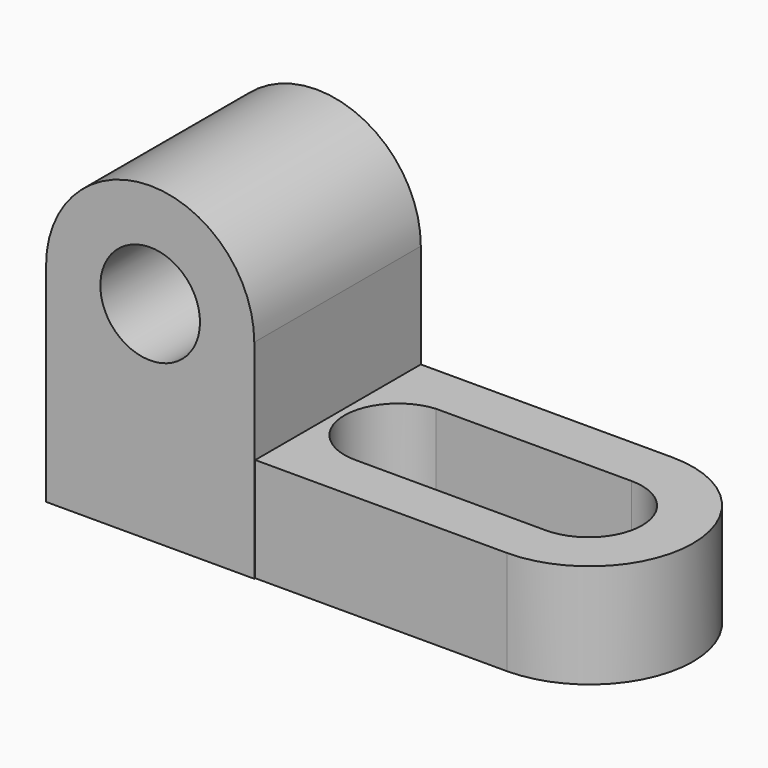
from build123d import *

# Parameters (mm, degrees)
F0_W      = 25.4
F0_H      = 25.4
F1_DEPTH  = 25.4
F2_W      = 31.493294
F2_H      = 25.251383
F3_DEPTH  = 12.7
F4_R      = 6.077907
F5_DEPTH  = 25.4
F5_FACE_R = 6.077907
F6_DEPTH  = 50.8
F8_DEPTH  = 12.7


with BuildPart() as f1:
    # F0 (on Front) → F1 (new body)
    with BuildSketch(Plane.XZ):
        with Locations((-57.573333, 12.7)):
            Rectangle(F0_W, F0_H)
        with BuildLine():
            ThreePointArc((-44.873333, 25.4), (-57.573333, 38.1), (-70.273333, 25.4))
            Line((-70.273333, 25.4), (-44.873333, 25.4))
        make_face()
    extrude(amount=F1_DEPTH)

    # F2 (on Top) → F3 (join)
    with BuildSketch(Plane.XY):
        with Locations((-29.932818, -12.625692)):
            Rectangle(F2_W, F2_H)
        with BuildLine():
            ThreePointArc((-14.186171, -25.251383), (-1.560479, -12.625691), (-14.186171, 0))
            Line((-14.186171, 0), (-14.186171, -25.251383))
        make_face()
    extrude(amount=F3_DEPTH)

    # F4 (on face) → F5 (join)
    with BuildSketch(Plane.XZ.offset(25.4)):
        with Locations((-57.573333, 25.4)):
            Circle(F4_R)
    extrude(amount=F5_DEPTH)

    # F5_face (on face) → F6 (cut)
    with BuildSketch(Plane(origin=(-57.573333, -50.8, 25.4), x_dir=(1, 0, 0), z_dir=(0, -1, 0))):
        Circle(F5_FACE_R)
    extrude(amount=-F6_DEPTH, mode=Mode.SUBTRACT)

    # F7 (on face) → F8 (cut)
    with BuildSketch(Plane.XY.offset(12.7)):
        with BuildLine():
            ThreePointArc((-14.186171, -19.293193), (-7.660532, -12.767554), (-14.186171, -6.241916))
            Line((-14.186171, -6.241916), (-38.018938, -6.241916))
            ThreePointArc((-38.018938, -6.241916), (-43.983294, -13.03921), (-37.451491, -19.293193))
            Line((-37.451491, -19.293193), (-14.186171, -19.293193))
        make_face()
    extrude(amount=-F8_DEPTH, mode=Mode.SUBTRACT)


solid = f1.part
